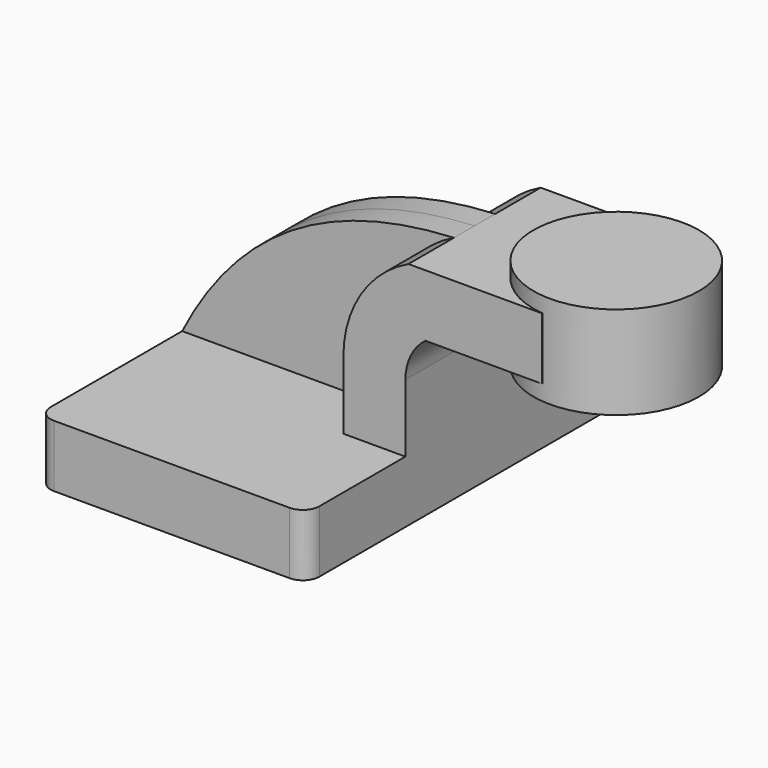
from build123d import *

# Parameters (mm, degrees)
F1_DEPTH = 25
F0_W     = 9.020209058
F0_H     = 7.5
F2_DEPTH = 10
F3_DEPTH = 3.125
F5_R     = 2


with BuildPart() as f1:
    # F0 (on Front) → F1 (new body, symmetric)
    with BuildSketch(Plane.XZ):
        Polygon((8.75, 3.75), (-16.25, 3.75), (-16.25, -3.75), (16.25, -3.75), (16.25, 3.75), align=None)
    extrude(amount=F1_DEPTH, both=True)

    # F0 (on Front) → F2 (join, symmetric)
    with BuildSketch(Plane.XZ):
        with BuildLine():
            Line((8.75, 11.9511034528), (8.75, 3.75))
            Line((8.75, 3.75), (16.25, 3.75))
            Line((16.25, 3.75), (16.25, 11.9511034528))
            ThreePointArc((16.25, 11.9511034528), (16.8839020833, 14.6937197566), (18.6570221407, 16.88))
            Line((18.6570221407, 16.88), (23.75, 16.88))
            Line((23.75, 16.88), (23.75, 24.38))
            Line((23.75, 24.38), (16.6190961053, 24.38))
            ThreePointArc((16.6190961053, 24.38), (10.8826653541, 19.3063761006), (8.75, 11.9511034528))
        make_face()
        with Locations((28.260104529, 20.63)):
            Rectangle(F0_W, F0_H)
    extrude(amount=F2_DEPTH, both=True)

    # F0 (on Front) → F3 (join, symmetric)
    with BuildSketch(Plane.XZ):
        with BuildLine():
            add(Edge.make_bspline(
                [(-16.25, 3.75), (-8.5098091513, 18.9848486334), (3.8099950824, 23.7404676708), (16.6190961053, 24.38)],
                knots=[0, 0, 0, 0, 38.8068857135, 38.8068857135, 38.8068857135, 38.8068857135], degree=3))
            Line((-16.25, 3.75), (8.75, 3.75))
            Line((8.75, 3.75), (8.75, 11.9511034528))
            ThreePointArc((8.75, 11.9511034528), (10.8826653541, 19.3063761006), (16.6190961053, 24.38))
        make_face()
    extrude(amount=F3_DEPTH, both=True)

    # F0 (on Front) → F4 (revolve)
    with BuildSketch(Plane.XZ):
        Polygon((43.75, 26.25), (33.75, 26.25), (33.75, 24.38), (33.75, 20.625), (33.75, 16.88), (33.75, 15), (43.75, 15), align=None)
    revolve(axis=Axis((33.75, 0, 23.4375), (0, 0, 1)))

    # F5
    f5_edges = [f1.edges().sort_by_distance(p)[0] for p in [
        (-16.25, 25, 0),
        (-16.25, -25, 0),
        (16.25, -25, 0),
        (16.25, 25, 0),
    ]]
    fillet(f5_edges, radius=F5_R)


solid = f1.part
